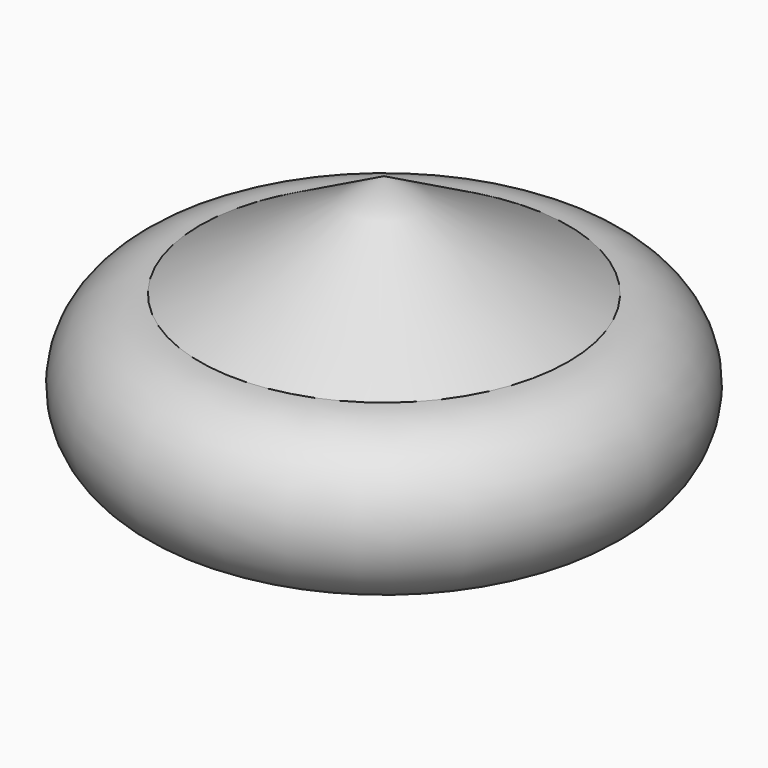
from build123d import *

# Parameters (mm, degrees)
F2_R     = 53.415828
F3_DEPTH = 25.4


with BuildPart() as f1:
    # F0 (on Front) → F1 (revolve)
    with BuildSketch(Plane.XZ):
        with BuildLine():
            ThreePointArc((53.06448, 0), (75.959904, 22.895424), (53.06448, 45.790847))
            Line((53.06448, 45.790847), (0, 75.546637))
            Line((0, 75.546637), (0, -16.365683))
            Line((0, -16.365683), (53.06448, 0))
        make_face()
    revolve(axis=Axis((0, 0, 29.590477), (0, 0, -1)))

    # F2 (on Top) → F3 (cut)
    with BuildSketch(Plane.XY):
        Circle(F2_R)
    extrude(amount=-F3_DEPTH, mode=Mode.SUBTRACT)


solid = f1.part
